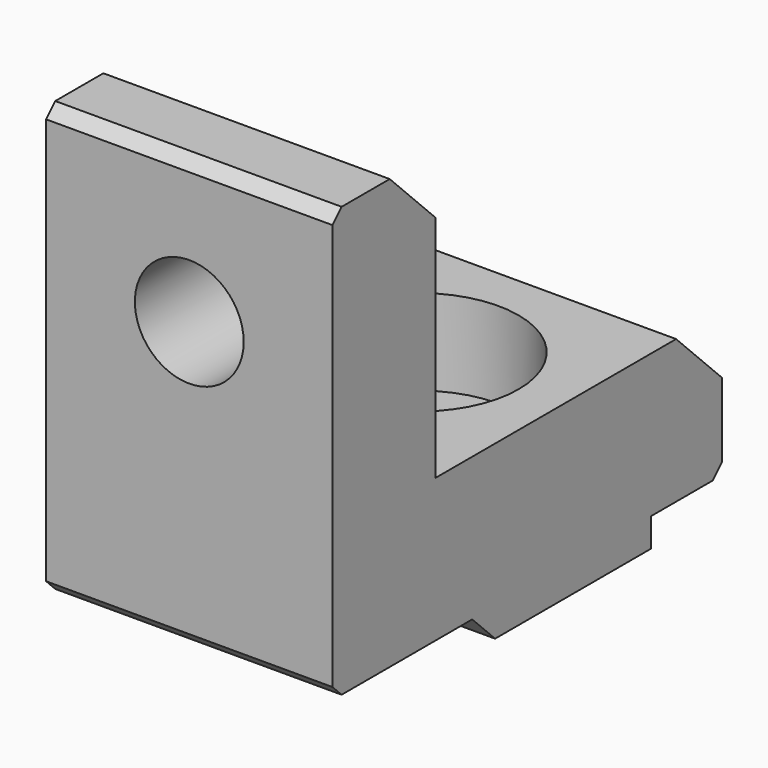
from build123d import *

# Parameters (mm, degrees)
CYLINDER006_R      = 1.65
CYLINDER006_DEPTH  = 10
CYLINDER007_R      = 3.5
CYLINDER007_DEPTH  = 10
CYLINDER008_R      = 1.9
CYLINDER008_DEPTH  = 10
BOX016_W           = 10
BOX016_H           = 16.5
BOX016_DEPTH       = 5
BOX017_W           = 10
BOX017_H           = 7.8
BOX017_DEPTH       = 2
CHAMFER003015_SIZE = 1
BOX015_W           = 10
BOX015_H           = 4.5
BOX015_DEPTH       = 15
CHAMFER003016_SIZE = 0.4
CHAMFER003017_SIZE = 2


with BuildPart() as cylinder006:
    # Cylinder006 → Cylinder006 (new body)
    with BuildSketch(Plane.XY.offset(-4)):
        Circle(CYLINDER006_R)
    extrude(amount=CYLINDER006_DEPTH)


with BuildPart() as fusion011:
    # Cylinder007 → Cylinder007 (new body)
    with BuildSketch(Plane.XY.offset(2)):
        Circle(CYLINDER007_R)
    extrude(amount=CYLINDER007_DEPTH)

    # Fusion011: union Cylinder006
    add(cylinder006.part)


with BuildPart() as cylinder008:
    # Cylinder008 → Cylinder008 (new body)
    with BuildSketch(Plane(origin=(0, -12, 10), x_dir=(1, 0, 0), z_dir=(0, 1, 0))):
        Circle(CYLINDER008_R)
    extrude(amount=CYLINDER008_DEPTH)


with BuildPart() as cube016:
    # Box016 → Box016 (new body)
    with BuildSketch(Plane(origin=(-5, -9.5, 0), x_dir=(1, 0, 0), z_dir=(0, 0, 1))):
        with Locations((5, 8.25)):
            Rectangle(BOX016_W, BOX016_H)
    extrude(amount=BOX016_DEPTH)


with BuildPart() as chamfer003015:
    # Box017 → Box017 (new body)
    with BuildSketch(Plane(origin=(-5, -3.9, -1), x_dir=(1, 0, 0), z_dir=(0, 0, 1))):
        with Locations((5, 3.9)):
            Rectangle(BOX017_W, BOX017_H)
    extrude(amount=BOX017_DEPTH)

    # Chamfer003015
    chamfer003015_edges = [chamfer003015.edges().sort_by_distance(p)[0] for p in [
        (0, -3.9, -1),
    ]]
    chamfer(chamfer003015_edges, length=CHAMFER003015_SIZE)


with BuildPart() as back_panel_support:
    # Box015 → Box015 (new body)
    with BuildSketch(Plane(origin=(-5, -10, 0), x_dir=(1, 0, 0), z_dir=(0, 0, 1))):
        with Locations((5, 2.25)):
            Rectangle(BOX015_W, BOX015_H)
    extrude(amount=BOX015_DEPTH)

    # Fusion012: union Cube016, Chamfer003015
    add(cube016.part)
    add(chamfer003015.part)

    # Chamfer003016
    chamfer003016_edges = [back_panel_support.edges().sort_by_distance(p)[0] for p in [
        (0, -10, 15),
        (0, -10, 0),
        (0, 7, 0),
    ]]
    chamfer(chamfer003016_edges, length=CHAMFER003016_SIZE)

    # Chamfer003017
    chamfer003017_edges = [back_panel_support.edges().sort_by_distance(p)[0] for p in [
        (0, -5.5, 15),
        (0, 7, 5),
    ]]
    chamfer(chamfer003017_edges, length=CHAMFER003017_SIZE)

    # Cut008004003004014002002005003004002: cut Cylinder008
    add(cylinder008.part, mode=Mode.SUBTRACT)

    # Cut008004003004014002002005003004003: cut Fusion011
    add(fusion011.part, mode=Mode.SUBTRACT)


solid = back_panel_support.part
